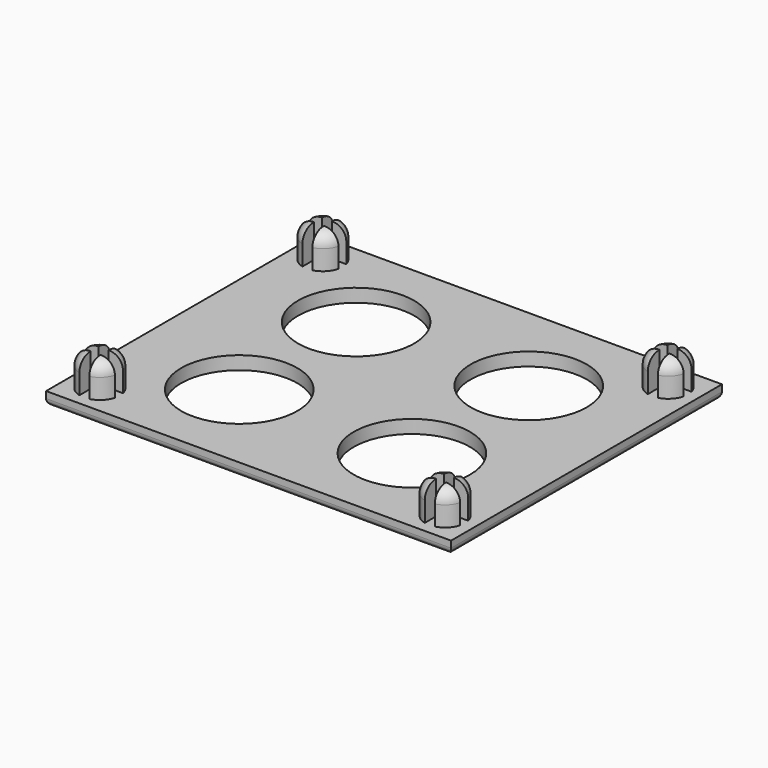
from build123d import *

# Parameters (mm, degrees)
SKETCH001_W                   = 61
SKETCH001_H                   = 51
PAD_DEPTH                     = 2
SKETCH002_R                   = 3
PAD001_DEPTH                  = 5
SKETCH002_MIRRORED_2_R        = 3
PAD001_MIRRORED_2_DEPTH       = 5
FILLET_R                      = 2
FILLET001_R                   = 1
POCKET_DEPTH                  = 5
POCKET_MIRRORED002_2_DEPTH    = 5
SKETCH053_R                   = 8.75
POCKET016_DEPTH               = 5
SKETCH053_MIRRORED004_2_R     = 8.75
POCKET016_MIRRORED004_2_DEPTH = 5


with BuildPart() as part:
    # Sketch001 → Pad (new body)
    with BuildSketch(Plane.XY):
        Rectangle(SKETCH001_W, SKETCH001_H)
    extrude(amount=PAD_DEPTH)

    # Sketch002 (on DatumPlane) → Pad001 (join)
    with BuildSketch(Plane.XY.offset(2)):
        with Locations((-26, 21)):
            Circle(SKETCH002_R)
    pad001 = extrude(amount=PAD001_DEPTH)

    # Sketch002 Mirrored 2 → Pad001 Mirrored 2 (add)
    with BuildSketch(Plane(origin=(0, 0, 2), x_dir=(-1, 0, 0), z_dir=(0, 0, -1))):
        with Locations((-26, 21)):
            Circle(SKETCH002_MIRRORED_2_R)
    pad001_mirrored_2 = extrude(amount=-PAD001_MIRRORED_2_DEPTH)

    # Mirrored001: Pad001, Pad001 Mirrored 2 across Sketch002 H_Axis
    add(pad001.mirror(Plane(origin=(0, 0, 2), x_dir=(0, 0, 1), z_dir=(0, 1, 0))))
    add(pad001_mirrored_2.mirror(Plane(origin=(0, 0, 2), x_dir=(0, 0, 1), z_dir=(0, 1, 0))))

    # Fillet
    fillet_edges = [part.edges().sort_by_distance(p)[0] for p in [
        (29, 21, 7),
        (29, -21, 7),
        (-29, -21, 7),
        (-29, 21, 7),
    ]]
    fillet(fillet_edges, radius=FILLET_R)

    # Fillet001
    fillet001_edges = [part.edges().sort_by_distance(p)[0] for p in [
        (0, 25.5, 0),
        (30.5, 0, 0),
        (0, -25.5, 0),
        (-30.5, 0, 0),
    ]]
    fillet(fillet001_edges, radius=FILLET001_R)

    # Sketch003 (on DatumPlane) → Pocket (cut)
    with BuildSketch(Plane.XY.offset(7)):
        Polygon((-29.265642, -20.28286), (-26.765642, -20.28286), (-26.765642, -17.78286), (-25.265642, -17.78286), (-25.265642, -20.28286), (-22.765642, -20.28286), (-22.765642, -21.78286), (-25.265642, -21.78286), (-25.265642, -24.28286), (-26.765642, -24.28286), (-26.765642, -21.78286), (-29.265642, -21.78286), align=None)
    pocket = extrude(amount=-POCKET_DEPTH, mode=Mode.SUBTRACT)

    # Sketch003 Mirrored002 2 → Pocket Mirrored002 2 (cut)
    with BuildSketch(Plane(origin=(0, 0, 7), x_dir=(-1, 0, 0), z_dir=(0, 0, -1))):
        Polygon((-29.265642, -20.28286), (-26.765642, -20.28286), (-26.765642, -17.78286), (-25.265642, -17.78286), (-25.265642, -20.28286), (-22.765642, -20.28286), (-22.765642, -21.78286), (-25.265642, -21.78286), (-25.265642, -24.28286), (-26.765642, -24.28286), (-26.765642, -21.78286), (-29.265642, -21.78286), align=None)
    pocket_mirrored002_2 = extrude(amount=POCKET_MIRRORED002_2_DEPTH, mode=Mode.SUBTRACT)

    # Mirrored003: Pocket, Pocket Mirrored002 2 across Sketch003 H_Axis
    add(pocket.mirror(Plane(origin=(0, 0, 7), x_dir=(0, 0, 1), z_dir=(0, 1, 0))), mode=Mode.SUBTRACT)
    add(pocket_mirrored002_2.mirror(Plane(origin=(0, 0, 7), x_dir=(0, 0, 1), z_dir=(0, 1, 0))), mode=Mode.SUBTRACT)


with BuildPart() as part_1:
    # Body placement: moved
    add(part.part.moved(Location((0, -65, 0))))


with BuildPart() as part_2:
    # Clone008 placement: moved
    add(part_1.part.moved(Location((0, 65, 0))))

    # Sketch053 (on DatumPlane) → Pocket016 (cut)
    with BuildSketch(Plane(origin=(13, -11, 0), x_dir=(1, 0, 0), z_dir=(0, 0, -1))):
        Circle(SKETCH053_R)
    pocket016 = extrude(amount=-POCKET016_DEPTH, mode=Mode.SUBTRACT)

    # Sketch053 Mirrored004 2 → Pocket016 Mirrored004 2 (cut)
    with BuildSketch(Plane(origin=(13, 11, 0), x_dir=(1, 0, 0), z_dir=(0, 0, 1))):
        Circle(SKETCH053_MIRRORED004_2_R)
    pocket016_mirrored004_2 = extrude(amount=POCKET016_MIRRORED004_2_DEPTH, mode=Mode.SUBTRACT)

    # Mirrored005: Pocket016, Pocket016 Mirrored004 2 across YZ
    add(pocket016.mirror(Plane.YZ), mode=Mode.SUBTRACT)
    add(pocket016_mirrored004_2.mirror(Plane.YZ), mode=Mode.SUBTRACT)


with BuildPart() as part_3:
    # Body015 placement: moved
    add(part_2.part.moved(Location((74, 61, 0))))


solid = part_3.part
